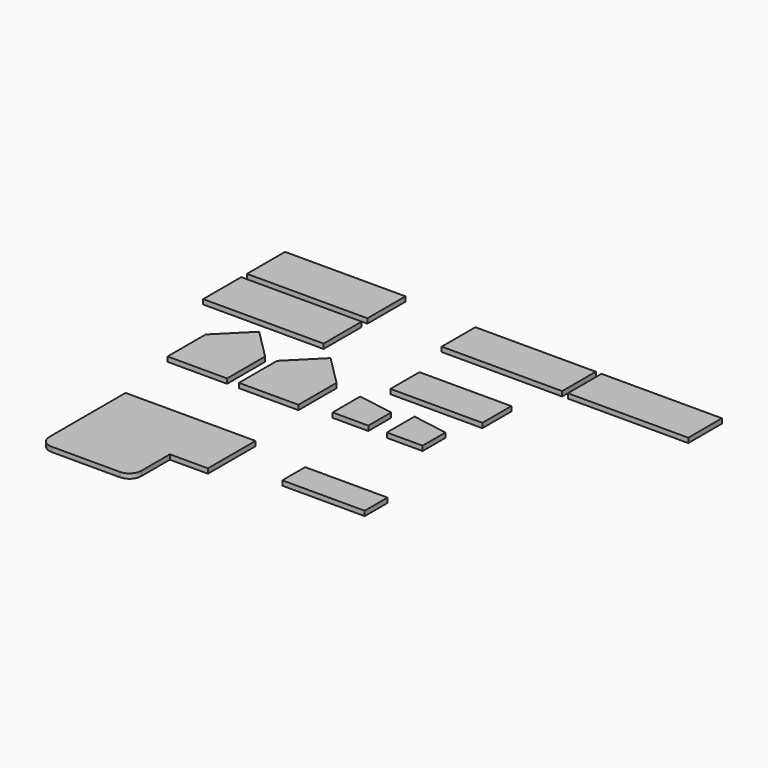
from build123d import *

# Parameters (mm, degrees)
F0_W      = 25
F0_H      = 20
F1_DEPTH  = 2
F4_DEPTH  = 2
F5_W      = 15
F5_H      = 12
F6_DEPTH  = 2
F8_W      = 34.612
F8_H      = 12
F9_DEPTH  = 2
F10_W     = 38.612
F10_H     = 15.207
F11_DEPTH = 2
F12_W     = 50.592
F12_H     = 20
F13_DEPTH = 2
F15_W     = 50.592
F15_H     = 17.678
F16_DEPTH = 2


with BuildPart() as f1:
    # F0 (on Top) → F1 (new body)
    with BuildSketch(Plane.XY):
        Polygon((-40.399476, 50.651752), (-52.899476, 38.151752), (-27.899476, 38.151752), align=None)
        with Locations((-40.399476, 28.151752)):
            Rectangle(F0_W, F0_H)
    extrude(amount=F1_DEPTH)


with BuildPart() as f2_1:
    # F2: copy of F1
    add(f1.part.moved(Location((30, 0, 0))))


with BuildPart() as f4:
    # F3 (on Top) → F4 (new body)
    with BuildSketch(Plane.XY):
        Polygon((7.105671, -10.66927), (-47.486167, -10.66927), (-47.486167, -35.66927), (-8.874466, -35.66927), (7.105671, -35.66927), align=None)
        with BuildLine():
            Line((-8.874466, -35.66927), (-47.486167, -35.66927))
            Line((-47.486167, -35.66927), (-47.486167, -50.66927))
            ThreePointArc((-47.486167, -50.66927), (-46.021701, -54.204804), (-42.486167, -55.66927))
            Line((-42.486167, -55.66927), (-13.874466, -55.66927))
            ThreePointArc((-13.874466, -55.66927), (-10.338932, -54.204804), (-8.874466, -50.66927))
            Line((-8.874466, -50.66927), (-8.874466, -35.66927))
        make_face()
    extrude(amount=F4_DEPTH)


with BuildPart() as f6:
    # F5 (on Top) → F6 (new body)
    with BuildSketch(Plane.XY):
        Polygon((37.042512, 35.416879), (37.042512, 32.916879), (52.042512, 32.916879), align=None)
        with Locations((44.542512, 26.916879)):
            Rectangle(F5_W, F5_H)
    extrude(amount=F6_DEPTH)


with BuildPart() as f7_1:
    # F7: copy of F6
    add(f6.part.moved(Location((-22.8, 0, 0))))


with BuildPart() as f9:
    # F8 (on Top) → F9 (new body)
    with BuildSketch(Plane.XY):
        with Locations((48.79689, -21.050803)):
            Rectangle(F8_W, F8_H)
    extrude(amount=F9_DEPTH)


with BuildPart() as f11:
    # F10 (on Top) → F11 (new body)
    with BuildSketch(Plane.XY):
        with Locations((37.911699, 53.455177)):
            Rectangle(F10_W, F10_H)
    extrude(amount=F11_DEPTH)


with BuildPart() as f13:
    # F12 (on Top) → F13 (new body)
    with BuildSketch(Plane.XY):
        with Locations((-43.928852, 67.270818)):
            Rectangle(F12_W, F12_H)
    extrude(amount=F13_DEPTH)


with BuildPart() as f14_1:
    # F14: copy of F13
    add(f13.part.moved(Location((0, 23, 0))))


with BuildPart() as f16:
    # F15 (on Top) → F16 (new body)
    with BuildSketch(Plane.XY):
        with Locations((38.280341, 88.632256)):
            Rectangle(F15_W, F15_H)
    extrude(amount=F16_DEPTH)


with BuildPart() as f17_1:
    # F17: copy of F16
    add(f16.part.moved(Location((53, 0, 0))))


solid = Compound([f1.part, f2_1.part, f4.part, f6.part, f7_1.part, f9.part, f11.part, f13.part, f14_1.part, f16.part, f17_1.part])
